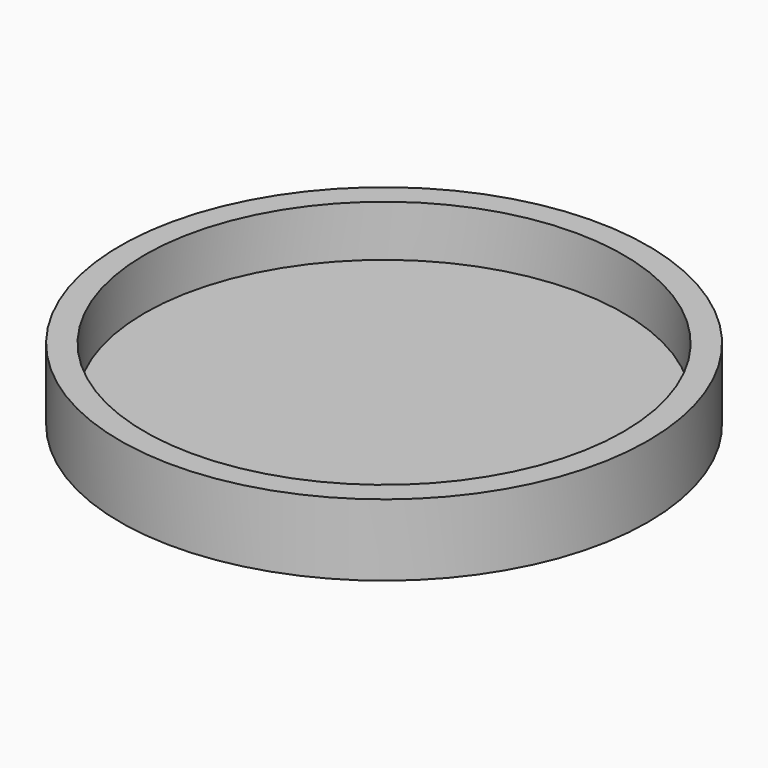
from build123d import *

# Parameters (mm, degrees)
F0_R     = 64.5
F0_R_2   = 58.5
F1_DEPTH = 5
F2_R     = 64.5
F2_R_2   = 58.5
F3_DEPTH = 17.5


with BuildPart() as f1:
    # F0 (on Top) → F1 (new body)
    with BuildSketch(Plane.XY):
        Circle(F0_R)
        Circle(F0_R_2, mode=Mode.SUBTRACT)
        Circle(F0_R_2)
    extrude(amount=F1_DEPTH)

    # F2 (on Top) → F3 (join)
    with BuildSketch(Plane.XY):
        Circle(F2_R)
        Circle(F2_R_2, mode=Mode.SUBTRACT)
    extrude(amount=F3_DEPTH)


solid = f1.part
